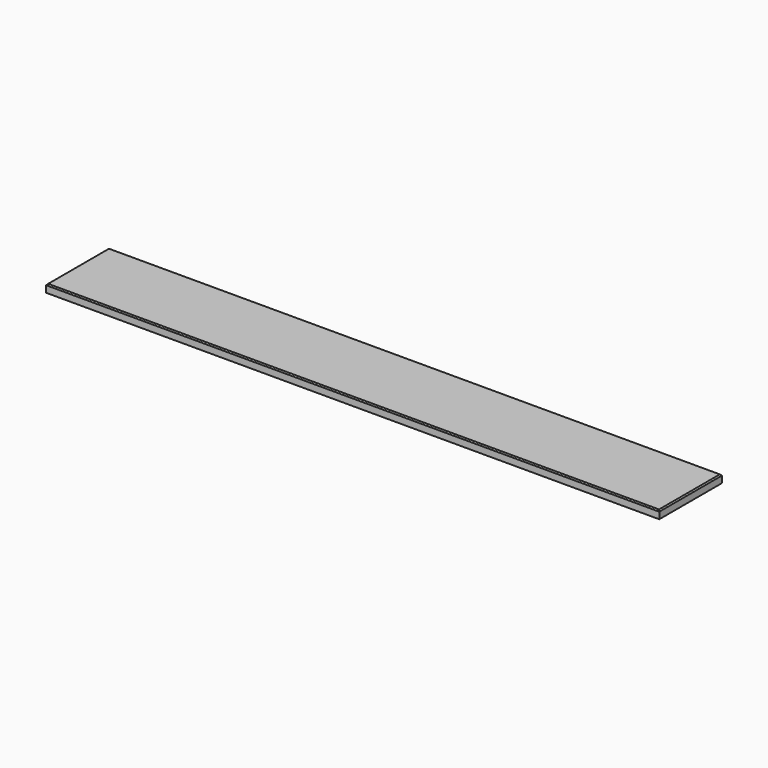
from build123d import *

# Parameters (mm, degrees)
F0_W     = 1566
F0_H     = 200
F1_DEPTH = 20
F2_SIZE  = 3


with BuildPart() as f1:
    # F0 (on Top) → F1 (new body)
    with BuildSketch(Plane.XY):
        Rectangle(F0_W, F0_H)
    extrude(amount=F1_DEPTH)

    # F2
    f2_edges = [f1.edges().sort_by_distance(p)[0] for p in [
        (0, 100, 20),
        (-783, 0, 20),
        (0, -100, 20),
        (783, 0, 20),
    ]]
    chamfer(f2_edges, length=F2_SIZE)


solid = f1.part
